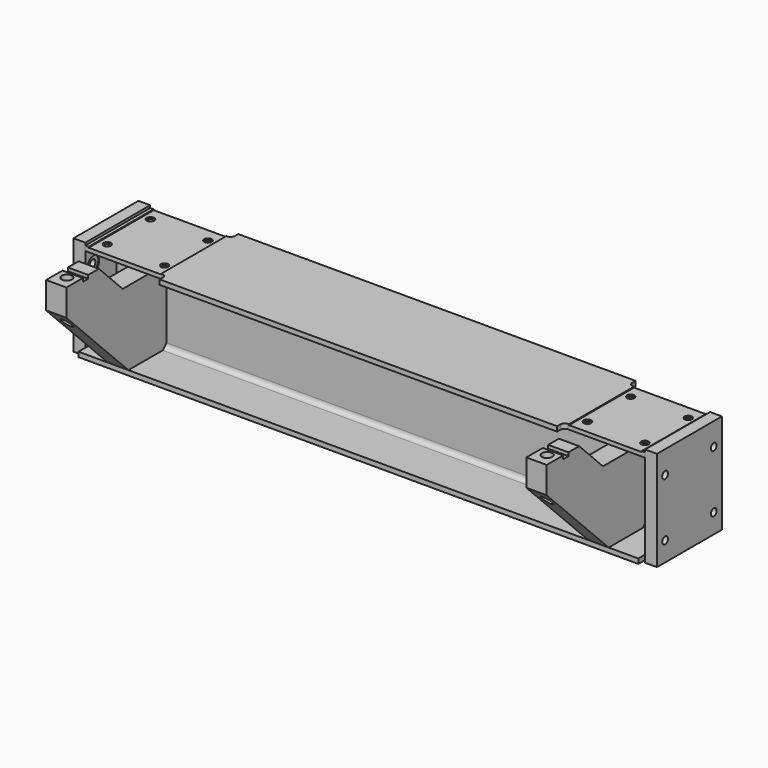
from build123d import *

# Parameters (mm, degrees)
F1_DEPTH        = 1050.925
F2_W            = 273.05
F2_H            = 368.808
F3_DEPTH        = 3.175
F5_D            = 14.224
F5_DEPTH        = 31.75
F5_CBORE_D      = 28.575
F5_CBORE_DEPTH  = 3.175
F5_TIP          = 4.2733207225
F6_W            = 304.8
F6_H            = 31.75
F7_DEPTH        = 25.4
F8_R            = 15.875
F9_W            = 304.8
F9_H            = 374.65
F10_DEPTH       = 44.45
F12_D           = 27.0002
F12_CBORE_D     = 53.975
F12_CBORE_DEPTH = 3.175
F15_DEPTH       = 76.2
F17_D           = 38.89248
F18_W           = 76.2
F18_H           = 25.4
F19_DEPTH       = 12.7


with BuildPart() as f1:
    # F0 (on Right) → F1 (new body)
    with BuildSketch(Plane.YZ):
        with BuildLine():
            Line((184.404, 178.054), (-184.404, 178.054))
            Line((-184.404, 178.054), (-184.404, 160.02))
            Line((-184.404, 160.02), (-23.368, 160.02))
            ThreePointArc((-23.368, 160.02), (-10.7956414305, 154.8123585695), (-5.588, 142.24))
            Line((-5.588, 142.24), (-5.588, -142.24))
            ThreePointArc((-5.588, -142.24), (-10.7956414305, -154.8123585695), (-23.368, -160.02))
            Line((-23.368, -160.02), (-184.404, -160.02))
            Line((-184.404, -160.02), (-184.404, -178.054))
            Line((-184.404, -178.054), (184.404, -178.054))
            Line((184.404, -178.054), (184.404, -160.02))
            Line((184.404, -160.02), (23.368, -160.02))
            ThreePointArc((23.368, -160.02), (10.7956414305, -154.8123585695), (5.588, -142.24))
            Line((5.588, -142.24), (5.588, 142.24))
            ThreePointArc((5.588, 142.24), (10.7956414305, 154.8123585695), (23.368, 160.02))
            Line((23.368, 160.02), (184.404, 160.02))
            Line((184.404, 160.02), (184.404, 178.054))
        make_face()
    extrude(amount=F1_DEPTH)

    # F2 (on face) → F3 (cut)
    with BuildSketch(Plane.XY.offset(178.054)):
        with Locations((901.7, 0)):
            Rectangle(F2_W, F2_H)
    extrude(amount=-F3_DEPTH, mode=Mode.SUBTRACT)

    # F5
    with Locations(Plane.XY.offset(174.879)):
        with Locations((793.623, 101.6), (1009.523, 101.6), (793.623, -101.6), (1009.523, -101.6)):
            CounterBoreHole(F5_D / 2, F5_CBORE_D / 2, F5_CBORE_DEPTH, depth=F5_DEPTH)
            with Locations((0, 0, -(F5_DEPTH + F5_TIP / 2))):  # 118° drill point
                Cone(0, F5_D / 2, F5_TIP, mode=Mode.SUBTRACT)

    # F6 (on face) → F7 (cut)
    with BuildSketch(Plane.XY.offset(178.054)):
        with Locations((898.525, 168.529)):
            Rectangle(F6_W, F6_H)
        with Locations((898.525, -168.529)):
            Rectangle(F6_W, F6_H)
    extrude(amount=-F7_DEPTH, mode=Mode.SUBTRACT)

    # F8
    f8_edges = [f1.edges().sort_by_distance(p)[0] for p in [
        (746.125, -152.654, 169.037),
        (746.125, 152.654, 169.037),
    ]]
    fillet(f8_edges, radius=F8_R)

    # F9 (on face) → F10 (join)
    with BuildSketch(Plane.YZ.offset(1050.925)):
        Rectangle(F9_W, F9_H)
    extrude(amount=F10_DEPTH)

    # F12 (through all)
    with Locations(Plane(origin=(1050.925, 0, 0), x_dir=(0, -1, 0), z_dir=(-1, 0, 0))):
        with Locations((-114.3, 101.854), (-114.3, -114.046), (114.3, 101.854), (114.3, -114.046)):
            CounterBoreHole(F12_D / 2, F12_CBORE_D / 2, F12_CBORE_DEPTH)

    # F14 (on offset) → F15 (join)
    with BuildSketch(Plane.YZ.offset(939.673)):
        Polygon((-5.588, -142.24), (-5.588, 119.38), (-211.074, 119.38), (-323.088, 231.394), (-475.488, 231.394), (-475.488, 131.064), (-184.404, -160.02), (-23.368, -160.02), align=None)
    extrude(amount=-F15_DEPTH)

    # F17 (through all)
    with Locations(Plane.XY.offset(231.394)):
        with Locations((901.573, -425.45)):
            Hole(F17_D / 2)

    # F18 (on face) → F19 (cut)
    with BuildSketch(Plane.XY.offset(231.394)):
        with Locations((901.573, -385.7752)):
            Rectangle(F18_W, F18_H)
    extrude(amount=-F19_DEPTH, mode=Mode.SUBTRACT)

    # F20: F1 across plane


with BuildPart() as f1_1:
    add(f1.part)
    add(f1.part.mirror(Plane.YZ))


solid = f1_1.part
